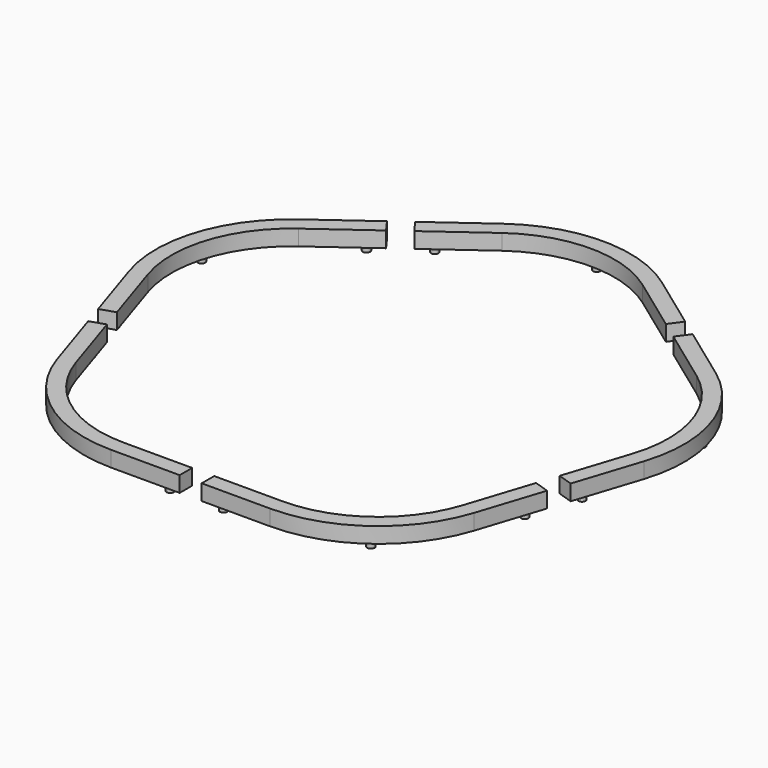
from build123d import *

# Parameters (mm, degrees)
PAD007_DEPTH   = 12.8
SKETCH026_R    = 3.05
PAD008_DEPTH   = 5.2
SKETCH027_R    = 3.05
PAD009_DEPTH   = 5.2
SKETCH028_R    = 3.05
PAD010_DEPTH   = 5.2
ARRAY002_COUNT = 5


with BuildPart() as array002:
    # Sketch025 → Pad007 (new body)
    with BuildSketch(Plane.XY):
        with BuildLine():
            Line((64.9839392466, -187.2), (9, -187.2))
            Line((9, -187.2), (9, -200))
            Line((9, -200), (64.9839392466, -200))
            ThreePointArc((64.9839392466, -200), (129.9678784932, -178.8854382), (170.1301616704, -123.60679775))
            Line((187.4301503097, -70.3629075216), (170.1301616704, -123.60679775))
            Line((187.4301503097, -70.3629075216), (175.2566269011, -66.4074899936))
            Line((157.9566382618, -119.651380222), (175.2566269011, -66.4074899936))
            ThreePointArc((64.9839392466, -187.2), (122.4442272638, -168.530020672), (157.9566382618, -119.651380222))
        make_face()
    extrude(amount=PAD007_DEPTH)

    # Sketch026 (on Face9 of Pad007) → Pad008 (join)
    with BuildSketch(Plane(origin=(0, 0, 0), x_dir=(1, 0, 0), z_dir=(0, 0, -1))):
        with Locations((21.8, 193.6)):
            Circle(SKETCH026_R)
    extrude(amount=PAD008_DEPTH)

    # Sketch027 (on Face4 of Pad008) → Pad009 (join)
    with BuildSketch(Plane(origin=(0, 0, 0), x_dir=(1, 0, 0), z_dir=(0, 0, -1))):
        with Locations((126.2060528785, 173.707729436)):
            Circle(SKETCH027_R)
    extrude(amount=PAD009_DEPTH)

    # Sketch028 (on Face4 of Pad009) → Pad010 (join)
    with BuildSketch(Plane(origin=(0, 0, 0), x_dir=(1, 0, 0), z_dir=(0, 0, -1))):
        with Locations((177.3879710774, 80.5587221662)):
            Circle(SKETCH028_R)
    extrude(amount=PAD010_DEPTH)


with BuildPart() as array002_copy1:
    # Array002: instance of Array002
    add(array002.part.rotate(Axis((0, 0, 0), (0, 0, 1)), 1 * 360 / ARRAY002_COUNT))


with BuildPart() as array002_copy2:
    # Array002: instance of Array002
    add(array002.part.rotate(Axis((0, 0, 0), (0, 0, 1)), 2 * 360 / ARRAY002_COUNT))


with BuildPart() as array002_copy3:
    # Array002: instance of Array002
    add(array002.part.rotate(Axis((0, 0, 0), (0, 0, 1)), 3 * 360 / ARRAY002_COUNT))


with BuildPart() as array002_copy4:
    # Array002: instance of Array002
    add(array002.part.rotate(Axis((0, 0, 0), (0, 0, 1)), 4 * 360 / ARRAY002_COUNT))


with BuildPart() as array002_1:
    # Array002 placement: moved
    add(array002.part.moved(Location((0, 0, 18))))


with BuildPart() as array002_copy1_1:
    # Array002 placement: moved
    add(array002_copy1.part.moved(Location((0, 0, 18))))


with BuildPart() as array002_copy2_1:
    # Array002 placement: moved
    add(array002_copy2.part.moved(Location((0, 0, 18))))


with BuildPart() as array002_copy3_1:
    # Array002 placement: moved
    add(array002_copy3.part.moved(Location((0, 0, 18))))


with BuildPart() as array002_copy4_1:
    # Array002 placement: moved
    add(array002_copy4.part.moved(Location((0, 0, 18))))


solid = Compound([array002_1.part, array002_copy1_1.part, array002_copy2_1.part, array002_copy3_1.part, array002_copy4_1.part])
